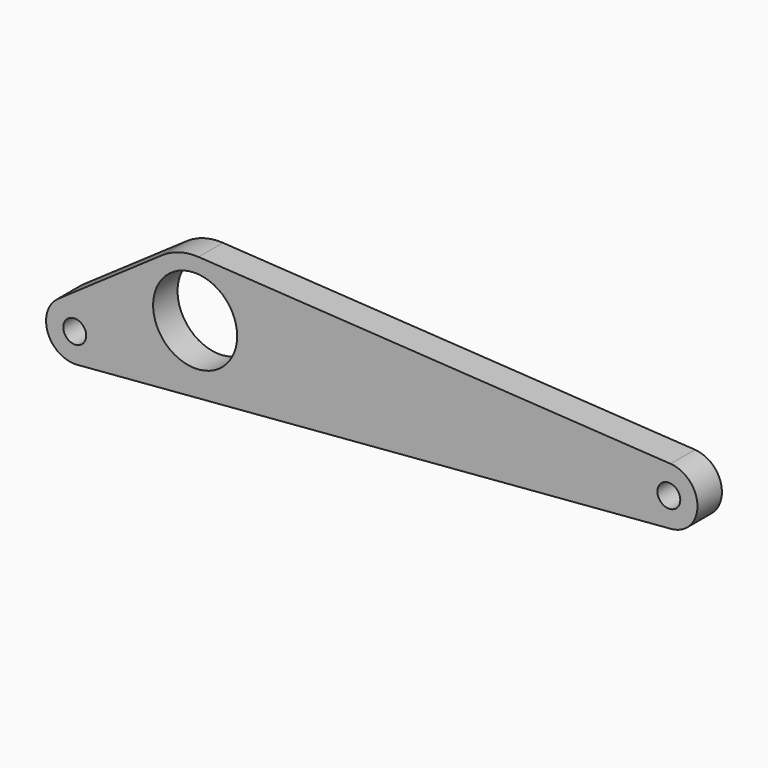
from build123d import *

# Parameters (mm, degrees)
F1_R     = 3
F1_R_2   = 11
F2_DEPTH = 4


with BuildPart() as f2:
    # F1 (on Front) → F2 (new body, symmetric)
    with BuildSketch(Plane.XZ):
        with BuildLine():
            Line((-30.9120895904, -20.2115996504), (124.6121614648, -7.4749754743))
            ThreePointArc((124.6121614648, -7.4749754743), (131.499578987, 0.0794670869), (124.4536290323, 7.4862688104))
            Line((124.4536290323, 7.4862688104), (0.9072580645, 14.9725376207))
            ThreePointArc((0.9072580645, 14.9725376207), (-4.0433781044, 14.4447600709), (-8.5485715239, 12.3256612358))
            Line((-8.5485715239, 12.3256612358), (-35.7985368172, -6.5737935582))
            ThreePointArc((-35.7985368172, -6.5737935582), (-38.5847203983, -15.2664013711), (-30.9120895904, -20.2115996504))
        make_face()
        with Locations((-31.5242510553, -12.7366241761)):
            Circle(F1_R, mode=Mode.SUBTRACT)
        Circle(F1_R_2, mode=Mode.SUBTRACT)
        with Locations((124, 0)):
            Circle(F1_R, mode=Mode.SUBTRACT)
    extrude(amount=F2_DEPTH, both=True)


solid = f2.part
